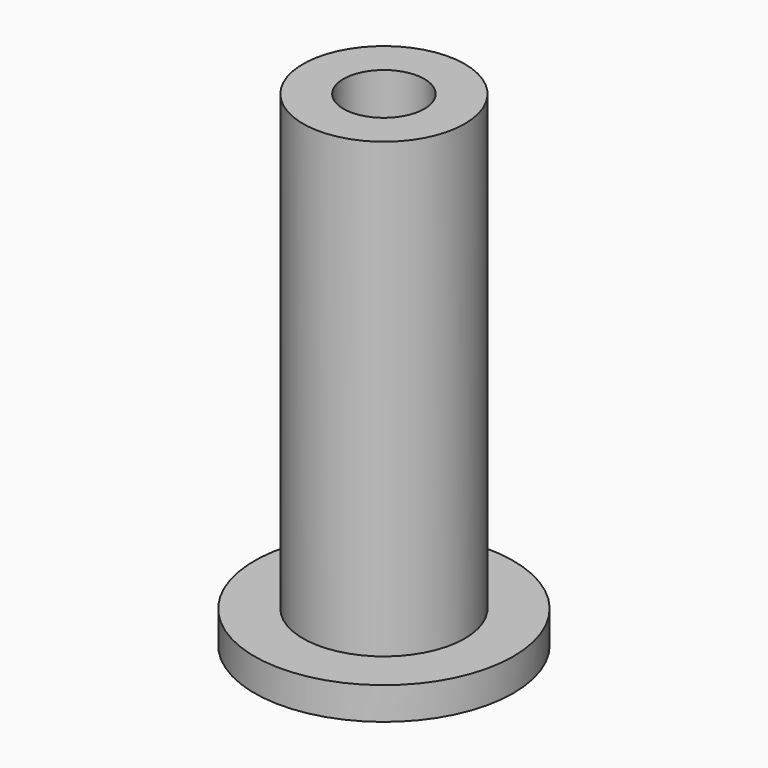
from build123d import *

# Parameters (mm, degrees)
F0_R     = 2.5
F0_R_2   = 1.25
F1_DEPTH = 15
F2_R     = 4
F2_R_2   = 2.5
F3_DEPTH = 1


with BuildPart() as f1:
    # F0 (on Top) → F1 (new body)
    with BuildSketch(Plane.XY):
        Circle(F0_R)
        Circle(F0_R_2, mode=Mode.SUBTRACT)
    extrude(amount=F1_DEPTH)

    # F2 (on face) → F3 (join)
    with BuildSketch(Plane(origin=(0, 0, 0), x_dir=(1, 0, 0), z_dir=(0, 0, -1))):
        Circle(F2_R)
        Circle(F2_R_2, mode=Mode.SUBTRACT)
    extrude(amount=-F3_DEPTH)


solid = f1.part
